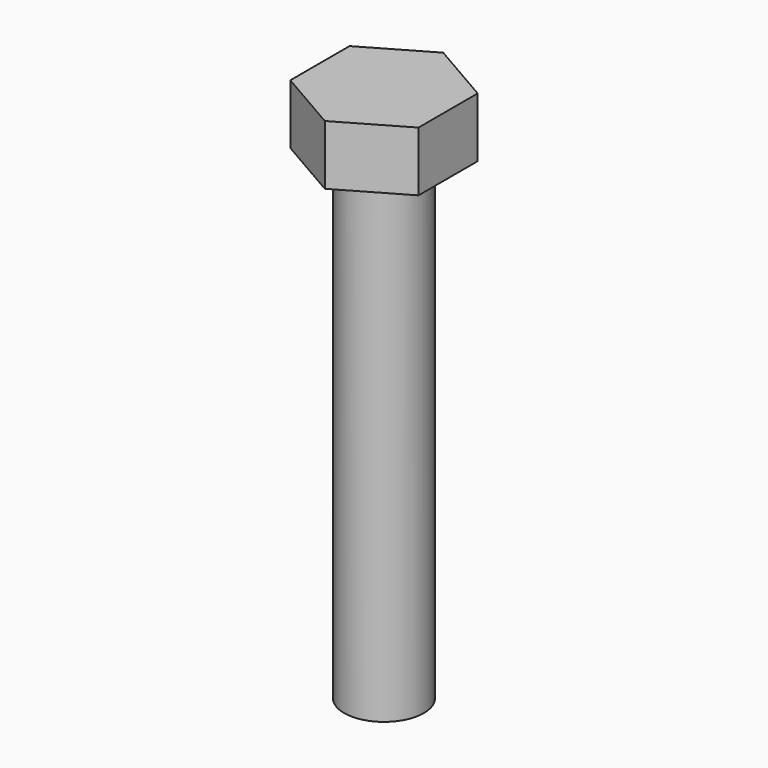
from build123d import *

# Parameters (mm, degrees)
F0_R     = 3.175
F1_DEPTH = 38.1
F3_DEPTH = 4.7498


with BuildPart() as f1:
    # F0 (on Top) → F1 (new body)
    with BuildSketch(Plane.XY):
        Circle(F0_R)
    extrude(amount=-F1_DEPTH)

    # F2 (on face) → F3 (join)
    with BuildSketch(Plane.XY):
        Polygon((5.100032, 2.944505), (0, 5.88901), (-5.100032, 2.944505), (-5.100032, -2.944505), (0, -5.88901), (5.100032, -2.944505), align=None)
    extrude(amount=F3_DEPTH)


solid = f1.part
